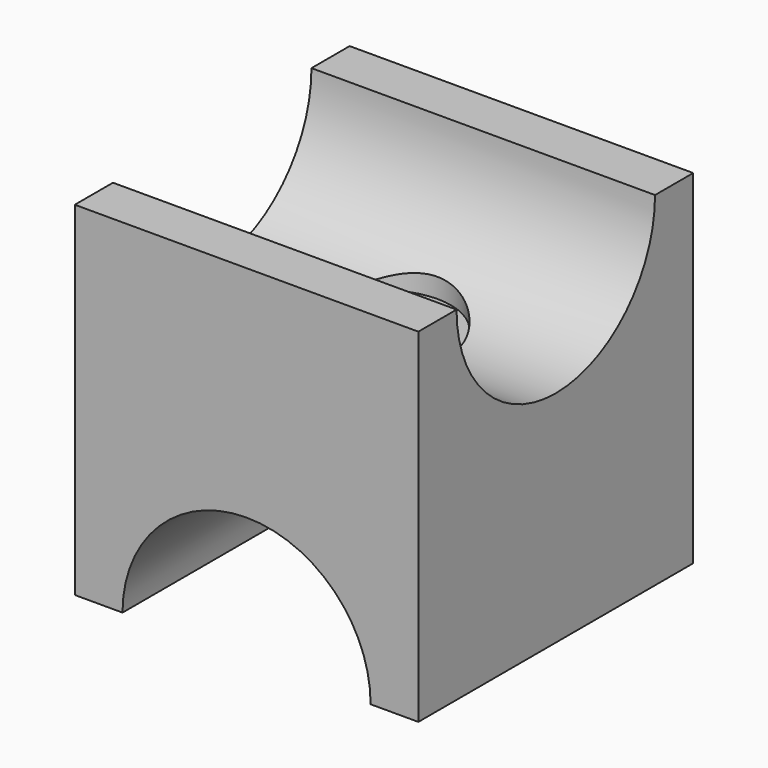
from build123d import *

# Parameters (mm, degrees)
BOX_W           = 36
BOX_H           = 36
BOX_DEPTH       = 36
SKETCH_R        = 3.5
POCKET_DEPTH    = 36.001
SKETCH004_R     = 7
POCKET001_DEPTH = 13
SKETCH001_R     = 7
POCKET002_DEPTH = 13
SKETCH003_R     = 13
POCKET003_DEPTH = 36.001
SKETCH002_R     = 13
POCKET004_DEPTH = 36.001


with BuildPart() as part:
    # Box → Box (new body)
    with BuildSketch(Plane.XY):
        with Locations((18, 18)):
            Rectangle(BOX_W, BOX_H)
    extrude(amount=BOX_DEPTH)

    # Sketch → Pocket (cut, through all)
    with BuildSketch(Plane.XY.offset(36)):
        with Locations((18, 18)):
            Circle(SKETCH_R)
    extrude(amount=-POCKET_DEPTH, mode=Mode.SUBTRACT)

    # Sketch004 → Pocket001 (cut)
    with BuildSketch(Plane.XY.offset(36)):
        with Locations((18, 18)):
            Circle(SKETCH004_R)
    extrude(amount=-POCKET001_DEPTH, mode=Mode.SUBTRACT)

    # Sketch001 → Pocket002 (cut)
    with BuildSketch(Plane(origin=(0, 0, 0), x_dir=(1, 0, 0), z_dir=(0, 0, -1))):
        with Locations((18, -18)):
            Circle(SKETCH001_R)
    extrude(amount=-POCKET002_DEPTH, mode=Mode.SUBTRACT)

    # Sketch003 → Pocket003 (cut, through all)
    with BuildSketch(Plane(origin=(0, 0, 0), x_dir=(0, -1, 0), z_dir=(-1, 0, 0))):
        with Locations((-18, 36)):
            Circle(SKETCH003_R)
    extrude(amount=-POCKET003_DEPTH, mode=Mode.SUBTRACT)

    # Sketch002 → Pocket004 (cut, through all)
    with BuildSketch(Plane.XZ):
        with Locations((18, 0)):
            Circle(SKETCH002_R)
    extrude(amount=-POCKET004_DEPTH, mode=Mode.SUBTRACT)


solid = part.part
